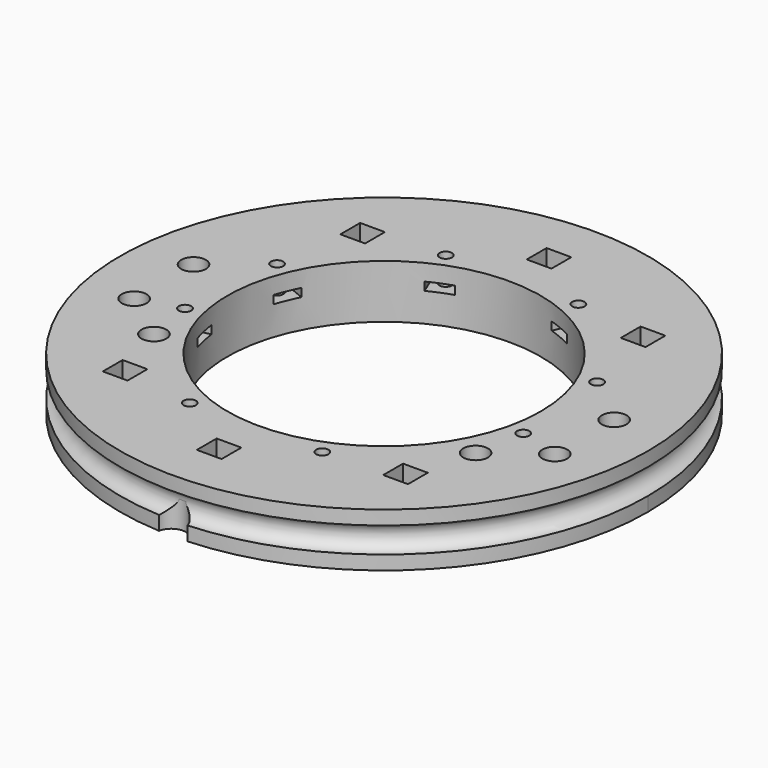
from build123d import *

# Parameters (mm, degrees)
CYLINDER529_R               = 1.5
CYLINDER529_DEPTH           = 100
CYLINDER528_R               = 1.5
CYLINDER528_DEPTH           = 100
CYLINDER533_R               = 3
CYLINDER533_DEPTH           = 7
CYLINDER532_R               = 3
CYLINDER532_DEPTH           = 7
BOX158_W                    = 6
BOX158_H                    = 8
BOX158_DEPTH                = 2
BOX158_PLACEMENT_ANGLE      = 77.5
BOX159_W                    = 6
BOX159_H                    = 8
BOX159_DEPTH                = 2
BOX159_PLACEMENT_ANGLE      = 112.5
BOX160_W                    = 6
BOX160_H                    = 8
BOX160_DEPTH                = 2
BOX160_PLACEMENT_ANGLE      = 157.5
BOX161_W                    = 6
BOX161_H                    = 8
BOX161_DEPTH                = 2
BOX161_PLACEMENT_ANGLE      = 202.5
BOX162_W                    = 6
BOX162_H                    = 8
BOX162_DEPTH                = 2
BOX162_PLACEMENT_ANGLE      = 112.5
BOX163_W                    = 6
BOX163_H                    = 8
BOX163_DEPTH                = 2
BOX163_PLACEMENT_ANGLE      = 77.5
BOX164_W                    = 6
BOX164_H                    = 8
BOX164_DEPTH                = 2
BOX164_PLACEMENT_ANGLE      = 22.5
BOX157_W                    = 6
BOX157_H                    = 8
BOX157_DEPTH                = 2
BOX157_PLACEMENT_ANGLE      = 22.5
CYLINDER737_R               = 1.5
CYLINDER737_DEPTH           = 100
CYLINDER737_PLACEMENT_ANGLE = 100
CYLINDER734_R               = 1.5
CYLINDER734_DEPTH           = 100
CYLINDER734_PLACEMENT_ANGLE = 135
CYLINDER728_R               = 1.5
CYLINDER728_DEPTH           = 100
CYLINDER735_R               = 1.5
CYLINDER735_DEPTH           = 100
CYLINDER735_PLACEMENT_ANGLE = 225
CYLINDER723_R               = 1.5
CYLINDER723_DEPTH           = 100
CYLINDER726_R               = 1.5
CYLINDER726_DEPTH           = 100
CYLINDER726_PLACEMENT_ANGLE = 55
CYLINDER736_R               = 1.5
CYLINDER736_DEPTH           = 100
CYLINDER724_R               = 1.5
CYLINDER724_DEPTH           = 100
CYLINDER724_PLACEMENT_ANGLE = 45
BOX147_W                    = 6
BOX147_H                    = 6
BOX147_DEPTH                = 10
BOX146_W                    = 6
BOX146_H                    = 6
BOX146_DEPTH                = 10
BOX148_W                    = 6
BOX148_H                    = 6
BOX148_DEPTH                = 10
BOX149_W                    = 6
BOX149_H                    = 6
BOX149_DEPTH                = 10
BOX150_W                    = 6
BOX150_H                    = 6
BOX150_DEPTH                = 10
BOX145_W                    = 6
BOX145_H                    = 6
BOX145_DEPTH                = 10
CYLINDER411_R               = 3
CYLINDER411_DEPTH           = 7
CYLINDER409_R               = 3
CYLINDER409_DEPTH           = 7
CYLINDER410_R               = 3
CYLINDER410_DEPTH           = 7
CYLINDER408_R               = 3
CYLINDER408_DEPTH           = 7
CYLINDER371_R               = 1.5
CYLINDER371_DEPTH           = 50
CYLINDER372_R               = 1.5
CYLINDER372_DEPTH           = 50
CYLINDER373_R               = 1.5
CYLINDER373_DEPTH           = 50
CYLINDER374_R               = 1.5
CYLINDER374_DEPTH           = 50
CYLINDER375_R               = 1.5
CYLINDER375_DEPTH           = 50
CYLINDER376_R               = 1.5
CYLINDER376_DEPTH           = 100
CYLINDER377_R               = 1.5
CYLINDER377_DEPTH           = 50
CYLINDER378_R               = 1.5
CYLINDER378_DEPTH           = 50
CYLINDER379_R               = 1.5
CYLINDER379_DEPTH           = 100
CYLINDER370_R               = 1.5
CYLINDER370_DEPTH           = 50
CYLINDER288_R               = 3.5
CYLINDER288_DEPTH           = 20
TORUS_R                     = 3.1
TUBE019_R                   = 64
TUBE019_R_2                 = 38
TUBE019_DEPTH               = 13


with BuildPart() as obj1:
    # Cylinder529 → Cylinder529 (new body)
    with BuildSketch(Plane(origin=(39, -21, 0), x_dir=(1, 0, 0), z_dir=(0, 0, 1))):
        Circle(CYLINDER529_R)
    extrude(amount=CYLINDER529_DEPTH)


with BuildPart() as compound704:
    # Cylinder528 → Cylinder528 (new body)
    with BuildSketch(Plane(origin=(-39, -21, 0), x_dir=(1, 0, 0), z_dir=(0, 0, 1))):
        Circle(CYLINDER528_R)
    extrude(amount=CYLINDER528_DEPTH)

    # Compound704: union obj1
    add(obj1.part)


with BuildPart() as obj2:
    # Cylinder533 → Cylinder533 (new body)
    with BuildSketch(Plane(origin=(39, -21, 50), x_dir=(1, 0, 0), z_dir=(0, 0, 1))):
        Circle(CYLINDER533_R)
    extrude(amount=CYLINDER533_DEPTH)


with BuildPart() as compound706:
    # Cylinder532 → Cylinder532 (new body)
    with BuildSketch(Plane(origin=(-39, -21, 50), x_dir=(1, 0, 0), z_dir=(0, 0, 1))):
        Circle(CYLINDER532_R)
    extrude(amount=CYLINDER532_DEPTH)

    # Compound706: union obj2
    add(obj2.part)


with BuildPart() as compound706_1:
    # Compound706 placement: moved
    add(compound706.part.moved(Location((0, 0, -25))))


with BuildPart() as krychle158:
    # Box158 → Box158 (new body)
    with BuildSketch(Plane.XY):
        with Locations((3, 4)):
            Rectangle(BOX158_W, BOX158_H)
    extrude(amount=BOX158_DEPTH)


with BuildPart() as krychle158_1:
    # Box158 placement: moved
    add(krychle158.part.moved(Location((43.284001, -12.668671, 25))).rotate(Axis((43.284001, -12.668671, 25), (0, 0, 1)), BOX158_PLACEMENT_ANGLE))


with BuildPart() as krychle159:
    # Box159 → Box159 (new body)
    with BuildSketch(Plane.XY):
        with Locations((3, 4)):
            Rectangle(BOX159_W, BOX159_H)
    extrude(amount=BOX159_DEPTH)


with BuildPart() as krychle159_1:
    # Box159 placement: moved
    add(krychle159.part.moved(Location((42.722629, 14.449116, 25))).rotate(Axis((42.722629, 14.449116, 25), (0, 0, 1)), BOX159_PLACEMENT_ANGLE))


with BuildPart() as krychle160:
    # Box160 → Box160 (new body)
    with BuildSketch(Plane.XY):
        with Locations((3, 4)):
            Rectangle(BOX160_W, BOX160_H)
    extrude(amount=BOX160_DEPTH)


with BuildPart() as krychle160_1:
    # Box160 placement: moved
    add(krychle160.part.moved(Location((19.992393, 40.426529, 25))).rotate(Axis((19.992393, 40.426529, 25), (0, 0, 1)), BOX160_PLACEMENT_ANGLE))


with BuildPart() as krychle161:
    # Box161 → Box161 (new body)
    with BuildSketch(Plane.XY):
        with Locations((3, 4)):
            Rectangle(BOX161_W, BOX161_H)
    extrude(amount=BOX161_DEPTH)


with BuildPart() as krychle161_1:
    # Box161 placement: moved
    add(krychle161.part.moved(Location((-14.449116, 42.722629, 25))).rotate(Axis((-14.449116, 42.722629, 25), (0, 0, 1)), BOX161_PLACEMENT_ANGLE))


with BuildPart() as krychle162:
    # Box162 → Box162 (new body)
    with BuildSketch(Plane.XY):
        with Locations((3, 4)):
            Rectangle(BOX162_W, BOX162_H)
    extrude(amount=BOX162_DEPTH)


with BuildPart() as krychle162_1:
    # Box162 placement: moved
    add(krychle162.part.moved(Location((-40.426529, 19.992393, 25))).rotate(Axis((-40.426529, 19.992393, 25), (0, 0, -1)), BOX162_PLACEMENT_ANGLE))


with BuildPart() as krychle163:
    # Box163 → Box163 (new body)
    with BuildSketch(Plane.XY):
        with Locations((3, 4)):
            Rectangle(BOX163_W, BOX163_H)
    extrude(amount=BOX163_DEPTH)


with BuildPart() as krychle163_1:
    # Box163 placement: moved
    add(krychle163.part.moved(Location((-44.582639, -6.810895, 25))).rotate(Axis((-44.582639, -6.810895, 25), (0, 0, -1)), BOX163_PLACEMENT_ANGLE))


with BuildPart() as krychle164:
    # Box164 → Box164 (new body)
    with BuildSketch(Plane.XY):
        with Locations((3, 4)):
            Rectangle(BOX164_W, BOX164_H)
    extrude(amount=BOX164_DEPTH)


with BuildPart() as krychle164_1:
    # Box164 placement: moved
    add(krychle164.part.moved(Location((-19.992393, -40.426529, 25))).rotate(Axis((-19.992393, -40.426529, 25), (0, 0, -1)), BOX164_PLACEMENT_ANGLE))


with BuildPart() as compound322:
    # Box157 → Box157 (new body)
    with BuildSketch(Plane.XY):
        with Locations((3, 4)):
            Rectangle(BOX157_W, BOX157_H)
    extrude(amount=BOX157_DEPTH)


with BuildPart() as compound322_1:
    # Box157 placement: moved
    add(compound322.part.moved(Location((14.449116, -42.722629, 25))).rotate(Axis((14.449116, -42.722629, 25), (0, 0, 1)), BOX157_PLACEMENT_ANGLE))

    # Compound322: union Krychle158, Krychle159, Krychle160, Krychle161, Krychle162, Krychle163, Krychle164
    add(krychle158_1.part)
    add(krychle159_1.part)
    add(krychle160_1.part)
    add(krychle161_1.part)
    add(krychle162_1.part)
    add(krychle163_1.part)
    add(krychle164_1.part)


with BuildPart() as obj3:
    # Cylinder737 → Cylinder737 (new body)
    with BuildSketch(Plane.XY):
        Circle(CYLINDER737_R)
    extrude(amount=CYLINDER737_DEPTH)


with BuildPart() as obj3_1:
    # Cylinder737 placement: moved
    add(obj3.part.moved(Location((41.004432, -9.090464, 0))).rotate(Axis((41.004432, -9.090464, 0), (0, 0, 1)), CYLINDER737_PLACEMENT_ANGLE))


with BuildPart() as obj4:
    # Cylinder734 → Cylinder734 (new body)
    with BuildSketch(Plane.XY):
        Circle(CYLINDER734_R)
    extrude(amount=CYLINDER734_DEPTH)


with BuildPart() as obj4_1:
    # Cylinder734 placement: moved
    add(obj4.part.moved(Location((38.80294, 16.072704, 0))).rotate(Axis((38.80294, 16.072704, 0), (0, 0, 1)), CYLINDER734_PLACEMENT_ANGLE))


with BuildPart() as obj5:
    # Cylinder728 → Cylinder728 (new body)
    with BuildSketch(Plane(origin=(16.072704, 38.80294, 0), x_dir=(-1, 0, 0), z_dir=(0, 0, 1))):
        Circle(CYLINDER728_R)
    extrude(amount=CYLINDER728_DEPTH)


with BuildPart() as obj6:
    # Cylinder735 → Cylinder735 (new body)
    with BuildSketch(Plane.XY):
        Circle(CYLINDER735_R)
    extrude(amount=CYLINDER735_DEPTH)


with BuildPart() as obj6_1:
    # Cylinder735 placement: moved
    add(obj6.part.moved(Location((-16.072704, 38.80294, 0))).rotate(Axis((-16.072704, 38.80294, 0), (0, 0, 1)), CYLINDER735_PLACEMENT_ANGLE))


with BuildPart() as obj7:
    # Cylinder723 → Cylinder723 (new body)
    with BuildSketch(Plane(origin=(-38.80294, 16.072704, 0), x_dir=(0, -1, 0), z_dir=(0, 0, 1))):
        Circle(CYLINDER723_R)
    extrude(amount=CYLINDER723_DEPTH)


with BuildPart() as obj8:
    # Cylinder726 → Cylinder726 (new body)
    with BuildSketch(Plane.XY):
        Circle(CYLINDER726_R)
    extrude(amount=CYLINDER726_DEPTH)


with BuildPart() as obj8_1:
    # Cylinder726 placement: moved
    add(obj8.part.moved(Location((-41.004432, -9.090464, 0))).rotate(Axis((-41.004432, -9.090464, 0), (0, 0, -1)), CYLINDER726_PLACEMENT_ANGLE))


with BuildPart() as obj9:
    # Cylinder736 → Cylinder736 (new body)
    with BuildSketch(Plane(origin=(-16.072704, -38.80294, 0), x_dir=(1, 0, 0), z_dir=(0, 0, 1))):
        Circle(CYLINDER736_R)
    extrude(amount=CYLINDER736_DEPTH)


with BuildPart() as compound328:
    # Cylinder724 → Cylinder724 (new body)
    with BuildSketch(Plane.XY):
        Circle(CYLINDER724_R)
    extrude(amount=CYLINDER724_DEPTH)


with BuildPart() as compound328_1:
    # Cylinder724 placement: moved
    add(compound328.part.moved(Location((16.072704, -38.80294, 0))).rotate(Axis((16.072704, -38.80294, 0), (0, 0, 1)), CYLINDER724_PLACEMENT_ANGLE))

    # Compound328: union obj3, obj4, obj5, obj6, obj7, obj8, obj9
    add(obj3_1.part)
    add(obj4_1.part)
    add(obj5.part)
    add(obj6_1.part)
    add(obj7.part)
    add(obj8_1.part)
    add(obj9.part)


with BuildPart() as compound328_2:
    # Compound328 placement: moved
    add(compound328_1.part.moved(Location((0, 0, 20))))


with BuildPart() as krychle147:
    # Box147 → Box147 (new body)
    with BuildSketch(Plane(origin=(-37, -39, 40), x_dir=(1, 0, 0), z_dir=(0, 0, 1))):
        with Locations((3, 3)):
            Rectangle(BOX147_W, BOX147_H)
    extrude(amount=BOX147_DEPTH)


with BuildPart() as krychle146:
    # Box146 → Box146 (new body)
    with BuildSketch(Plane(origin=(-3, -53, 40), x_dir=(1, 0, 0), z_dir=(0, 0, 1))):
        with Locations((3, 3)):
            Rectangle(BOX146_W, BOX146_H)
    extrude(amount=BOX146_DEPTH)


with BuildPart() as krychle148:
    # Box148 → Box148 (new body)
    with BuildSketch(Plane(origin=(31, 33, 40), x_dir=(1, 0, 0), z_dir=(0, 0, 1))):
        with Locations((3, 3)):
            Rectangle(BOX148_W, BOX148_H)
    extrude(amount=BOX148_DEPTH)


with BuildPart() as krychle149:
    # Box149 → Box149 (new body)
    with BuildSketch(Plane(origin=(-37, 33, 40), x_dir=(1, 0, 0), z_dir=(0, 0, 1))):
        with Locations((3, 3)):
            Rectangle(BOX149_W, BOX149_H)
    extrude(amount=BOX149_DEPTH)


with BuildPart() as krychle150:
    # Box150 → Box150 (new body)
    with BuildSketch(Plane(origin=(31, -39, 40), x_dir=(1, 0, 0), z_dir=(0, 0, 1))):
        with Locations((3, 3)):
            Rectangle(BOX150_W, BOX150_H)
    extrude(amount=BOX150_DEPTH)


with BuildPart() as compound315:
    # Box145 → Box145 (new body)
    with BuildSketch(Plane(origin=(-3, 47, 40), x_dir=(1, 0, 0), z_dir=(0, 0, 1))):
        with Locations((3, 3)):
            Rectangle(BOX145_W, BOX145_H)
    extrude(amount=BOX145_DEPTH)

    # Compound315: union Krychle147, Krychle146, Krychle148, Krychle149, Krychle150
    add(krychle147.part)
    add(krychle146.part)
    add(krychle148.part)
    add(krychle149.part)
    add(krychle150.part)


with BuildPart() as compound315_1:
    # Compound315 placement: moved
    add(compound315.part.moved(Location((0, 0, -18))))


with BuildPart() as obj10:
    # Cylinder411 → Cylinder411 (new body)
    with BuildSketch(Plane(origin=(51, -12, 50), x_dir=(1, 0, 0), z_dir=(0, 0, 1))):
        Circle(CYLINDER411_R)
    extrude(amount=CYLINDER411_DEPTH)


with BuildPart() as obj11:
    # Cylinder409 → Cylinder409 (new body)
    with BuildSketch(Plane(origin=(51, 6, 50), x_dir=(1, 0, 0), z_dir=(0, 0, 1))):
        Circle(CYLINDER409_R)
    extrude(amount=CYLINDER409_DEPTH)


with BuildPart() as obj12:
    # Cylinder410 → Cylinder410 (new body)
    with BuildSketch(Plane(origin=(-51, 6, 50), x_dir=(1, 0, 0), z_dir=(0, 0, 1))):
        Circle(CYLINDER410_R)
    extrude(amount=CYLINDER410_DEPTH)


with BuildPart() as compound313:
    # Cylinder408 → Cylinder408 (new body)
    with BuildSketch(Plane(origin=(-51, -12, 50), x_dir=(1, 0, 0), z_dir=(0, 0, 1))):
        Circle(CYLINDER408_R)
    extrude(amount=CYLINDER408_DEPTH)

    # Compound313: union obj10, obj11, obj12
    add(obj10.part)
    add(obj11.part)
    add(obj12.part)


with BuildPart() as compound313_1:
    # Compound313 placement: moved
    add(compound313.part.moved(Location((0, 0, -25))))


with BuildPart() as obj13:
    # Cylinder371 → Cylinder371 (new body)
    with BuildSketch(Plane(origin=(34, 36, 0), x_dir=(1, 0, 0), z_dir=(0, 0, 1))):
        Circle(CYLINDER371_R)
    extrude(amount=CYLINDER371_DEPTH)


with BuildPart() as obj14:
    # Cylinder372 → Cylinder372 (new body)
    with BuildSketch(Plane(origin=(-34, -36, 0), x_dir=(1, 0, 0), z_dir=(0, 0, 1))):
        Circle(CYLINDER372_R)
    extrude(amount=CYLINDER372_DEPTH)


with BuildPart() as obj15:
    # Cylinder373 → Cylinder373 (new body)
    with BuildSketch(Plane(origin=(34, -36, 0), x_dir=(1, 0, 0), z_dir=(0, 0, 1))):
        Circle(CYLINDER373_R)
    extrude(amount=CYLINDER373_DEPTH)


with BuildPart() as obj16:
    # Cylinder374 → Cylinder374 (new body)
    with BuildSketch(Plane(origin=(0, 50, 0), x_dir=(1, 0, 0), z_dir=(0, 0, 1))):
        Circle(CYLINDER374_R)
    extrude(amount=CYLINDER374_DEPTH)


with BuildPart() as obj17:
    # Cylinder375 → Cylinder375 (new body)
    with BuildSketch(Plane(origin=(0, -50, 0), x_dir=(1, 0, 0), z_dir=(0, 0, 1))):
        Circle(CYLINDER375_R)
    extrude(amount=CYLINDER375_DEPTH)


with BuildPart() as obj18:
    # Cylinder376 → Cylinder376 (new body)
    with BuildSketch(Plane(origin=(-51, -12, 0), x_dir=(1, 0, 0), z_dir=(0, 0, 1))):
        Circle(CYLINDER376_R)
    extrude(amount=CYLINDER376_DEPTH)


with BuildPart() as obj19:
    # Cylinder377 → Cylinder377 (new body)
    with BuildSketch(Plane(origin=(51, 6, 0), x_dir=(1, 0, 0), z_dir=(0, 0, 1))):
        Circle(CYLINDER377_R)
    extrude(amount=CYLINDER377_DEPTH)


with BuildPart() as obj20:
    # Cylinder378 → Cylinder378 (new body)
    with BuildSketch(Plane(origin=(-51, 6, 0), x_dir=(1, 0, 0), z_dir=(0, 0, 1))):
        Circle(CYLINDER378_R)
    extrude(amount=CYLINDER378_DEPTH)


with BuildPart() as obj21:
    # Cylinder379 → Cylinder379 (new body)
    with BuildSketch(Plane(origin=(51, -12, 0), x_dir=(1, 0, 0), z_dir=(0, 0, 1))):
        Circle(CYLINDER379_R)
    extrude(amount=CYLINDER379_DEPTH)


with BuildPart() as compound308:
    # Cylinder370 → Cylinder370 (new body)
    with BuildSketch(Plane(origin=(-34, 36, 0), x_dir=(1, 0, 0), z_dir=(0, 0, 1))):
        Circle(CYLINDER370_R)
    extrude(amount=CYLINDER370_DEPTH)

    # Compound308: union obj13, obj14, obj15, obj16, obj17, obj18, obj19, obj20, obj21
    add(obj13.part)
    add(obj14.part)
    add(obj15.part)
    add(obj16.part)
    add(obj17.part)
    add(obj18.part)
    add(obj19.part)
    add(obj20.part)
    add(obj21.part)


with BuildPart() as obj22:
    # Cylinder288 → Cylinder288 (new body)
    with BuildSketch(Plane(origin=(0, -64.5, 4.5), x_dir=(1, 0, 0), z_dir=(0, 0, 1))):
        Circle(CYLINDER288_R)
    extrude(amount=CYLINDER288_DEPTH)


with BuildPart() as obj23:
    # Torus → Torus (revolve)
    with BuildSketch(Plane(origin=(0, 0, 24.5), x_dir=(1, 0, 0), z_dir=(0, -1, 0))):
        with Locations((64.2, 0)):
            Circle(TORUS_R)
    revolve(axis=Axis((0, 0, 24.5), (0, 0, 1)))


with BuildPart() as cut177:
    # Tube019 → Tube019 (new body)
    with BuildSketch(Plane.XY.offset(18)):
        Circle(TUBE019_R)
        Circle(TUBE019_R_2, mode=Mode.SUBTRACT)
    extrude(amount=TUBE019_DEPTH)

    # Cut129: cut obj23
    add(obj23.part, mode=Mode.SUBTRACT)

    # Cut130: cut obj22
    add(obj22.part, mode=Mode.SUBTRACT)

    # Cut160: cut Compound308
    add(compound308.part, mode=Mode.SUBTRACT)

    # Cut162: cut Compound313
    add(compound313_1.part, mode=Mode.SUBTRACT)

    # Cut164: cut Compound315
    add(compound315_1.part, mode=Mode.SUBTRACT)

    # Cut321: cut Compound328
    add(compound328_2.part, mode=Mode.SUBTRACT)

    # Cut323: cut Compound322
    add(compound322_1.part, mode=Mode.SUBTRACT)

    # Cut176: cut Compound706
    add(compound706_1.part, mode=Mode.SUBTRACT)

    # Cut177: cut Compound704
    add(compound704.part, mode=Mode.SUBTRACT)


solid = cut177.part
